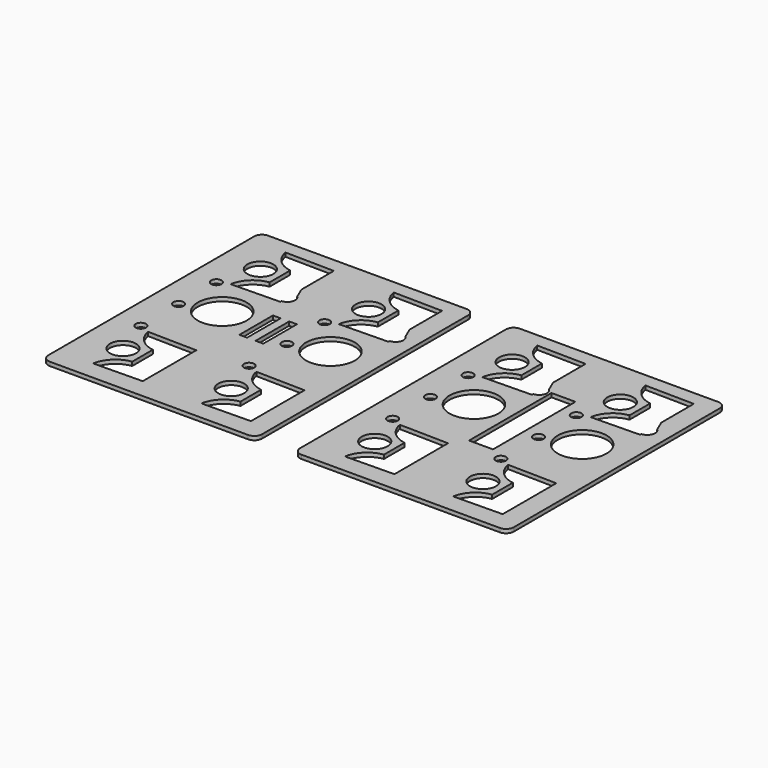
from build123d import *

# Parameters (mm, degrees)
F0_W     = 41
F0_H     = 106
F0_R     = 5.05
F0_R_2   = 2
F0_R_3   = 9.5
F0_W_2   = 3
F0_H_2   = 16.3
F0_W_3   = 1.0329227456
F1_DEPTH = 1.5
F0_H_3   = 39
F0_H_4   = 27
F2_R     = 3
F2_2_R   = 3


with BuildPart() as f1:
    # F0 (on Top) → F1 (new body)
    with BuildSketch(Plane.XY):
        with Locations((-35.5483626434, -1.2095117271)):
            Rectangle(F0_W, F0_H)
        with Locations((-41.1443521491, -33.556083858)):
            Circle(F0_R, mode=Mode.SUBTRACT)
        with BuildLine():
            ThreePointArc((-33.5483626434, -28.556083858), (-39.1555166863, -25.7806156934), (-42.0483626434, -20.2331079411))
            Line((-42.0483626434, -20.2331079411), (-23.0483626434, -20.590558947))
            Line((-23.0483626434, -20.590558947), (-23.0483626434, -46.590558947))
            Line((-23.0483626434, -46.590558947), (-42.0483626434, -46.8790597749))
            ThreePointArc((-42.0483626434, -46.8790597749), (-39.1555166863, -41.3315520227), (-33.5483626434, -38.556083858))
            Line((-33.5483626434, -38.556083858), (-33.5483626434, -28.556083858))
        make_face(mode=Mode.SUBTRACT)
        with Locations((-46.2035445282, -18.5231987163)):
            Circle(F0_R_2, mode=Mode.SUBTRACT)
        with Locations((-46.2035445282, -0.2095117271)):
            Circle(F0_R_2, mode=Mode.SUBTRACT)
        with Locations((-32.7983626434, 4.1904882729)):
            Circle(F0_R_3, mode=Mode.SUBTRACT)
        with Locations((-17.6819012706, 3.6404882729)):
            Rectangle(F0_W_2, F0_H_2, mode=Mode.SUBTRACT)
        with Locations((-46.2035445282, 18.1041752622)):
            Circle(F0_R_2, mode=Mode.SUBTRACT)
        with Locations((-41.1443521491, 33.1370604038)):
            Circle(F0_R, mode=Mode.SUBTRACT)
        with BuildLine():
            ThreePointArc((-33.5483626434, 38.1370604038), (-39.1555166863, 40.9125285685), (-42.0483626434, 46.4600363208))
            Line((-42.0483626434, 46.4600363208), (-23.0483626434, 46.1715354928))
            Line((-23.0483626434, 46.1715354928), (-23.0483626434, 30.4061131087))
            Line((-23.0483626434, 30.4061131087), (-21.1861339023, 26.0597741446))
            ThreePointArc((-21.1861339023, 26.0597741446), (-20.4201135507, 25.038148839), (-20.1483626434, 23.7904882729))
            ThreePointArc((-20.1483626434, 23.7904882729), (-20.9919767781, 21.7048229114), (-23.0483626434, 20.7921554028))
            Line((-23.0483626434, 20.7921554028), (-23.0483626434, 20.1715354928))
            Line((-23.0483626434, 20.1715354928), (-42.0483626434, 19.8140844869))
            ThreePointArc((-42.0483626434, 19.8140844869), (-39.1555166863, 25.3615922392), (-33.5483626434, 28.1370604038))
            Line((-33.5483626434, 28.1370604038), (-33.5483626434, 38.1370604038))
        make_face(mode=Mode.SUBTRACT)
        with Locations((-14.5319012706, -1.2095117271)):
            Rectangle(F0_W_3, F0_H)
        with Locations((6.4845601022, -1.2095117271)):
            Rectangle(F0_W, F0_H)
        with Locations((0.8885705966, -33.556083858)):
            Circle(F0_R, mode=Mode.SUBTRACT)
        with BuildLine():
            ThreePointArc((8.4845601022, -28.556083858), (2.8774060594, -25.7806156934), (-0.0154398978, -20.2331079411))
            Line((-0.0154398978, -20.2331079411), (18.9845601022, -20.590558947))
            Line((18.9845601022, -20.590558947), (18.9845601022, -46.590558947))
            Line((18.9845601022, -46.590558947), (-0.0154398978, -46.8790597749))
            ThreePointArc((-0.0154398978, -46.8790597749), (2.8774060594, -41.3315520227), (8.4845601022, -38.556083858))
            Line((8.4845601022, -38.556083858), (8.4845601022, -28.556083858))
        make_face(mode=Mode.SUBTRACT)
        with Locations((-4.1706217825, -18.5231987163)):
            Circle(F0_R_2, mode=Mode.SUBTRACT)
        with Locations((-11.3819012706, 3.6404882729)):
            Rectangle(F0_W_2, F0_H_2, mode=Mode.SUBTRACT)
        with Locations((-4.1706217825, -0.2095117271)):
            Circle(F0_R_2, mode=Mode.SUBTRACT)
        with Locations((9.2345601022, 4.1904882729)):
            Circle(F0_R_3, mode=Mode.SUBTRACT)
        with Locations((-4.1706217825, 18.1041752622)):
            Circle(F0_R_2, mode=Mode.SUBTRACT)
        with Locations((0.8885705966, 33.1370604038)):
            Circle(F0_R, mode=Mode.SUBTRACT)
        with BuildLine():
            ThreePointArc((8.4845601022, 38.1370604038), (2.8774060594, 40.9125285685), (-0.0154398978, 46.4600363208))
            Line((-0.0154398978, 46.4600363208), (18.9845601022, 46.1715354928))
            Line((18.9845601022, 46.1715354928), (18.9845601022, 30.4061131087))
            Line((18.9845601022, 30.4061131087), (20.8467888433, 26.0597741446))
            ThreePointArc((20.8467888433, 26.0597741446), (21.6128091949, 25.038148839), (21.8845601022, 23.7904882729))
            ThreePointArc((21.8845601022, 23.7904882729), (21.0409459675, 21.7048229114), (18.9845601022, 20.7921554028))
            Line((18.9845601022, 20.7921554028), (18.9845601022, 20.1715354928))
            Line((18.9845601022, 20.1715354928), (-0.0154398978, 19.8140844869))
            ThreePointArc((-0.0154398978, 19.8140844869), (2.8774060594, 25.3615922392), (8.4845601022, 28.1370604038))
            Line((8.4845601022, 28.1370604038), (8.4845601022, 38.1370604038))
        make_face(mode=Mode.SUBTRACT)
    extrude(amount=F1_DEPTH)

    # F2
    f2_edges = [f1.edges().sort_by_distance(p)[0] for p in [
        (26.98456, 51.790488, 0.75),
        (-56.048363, 51.790488, 0.75),
        (-56.048363, -54.209512, 0.75),
        (26.98456, -54.209512, 0.75),
    ]]
    fillet(f2_edges, radius=F2_R)


with BuildPart() as f1b:
    # F0 (on Top) → F1, piece 2 (new body)
    with BuildSketch(Plane.XY):
        Polygon((82.7163193299, 24.7904882729), (82.7163193299, 51.7904882729), (41.7163193299, 51.7904882729), (41.7163193299, -54.2095117271), (82.7163193299, -54.2095117271), (82.7163193299, -15.2095117271), (78.5827807027, -15.2095117271), (78.5827807027, -4.2095117271), (78.5827807027, 11.7904882729), (78.5827807027, 24.7904882729), align=None)
        with Locations((56.6203298242, -33.556083858)):
            Circle(F0_R, mode=Mode.SUBTRACT)
        with BuildLine():
            ThreePointArc((64.2163193299, -28.556083858), (58.609165287, -25.7806156934), (55.7163193299, -20.2331079411))
            Line((55.7163193299, -20.2331079411), (74.7163193299, -20.590558947))
            Line((74.7163193299, -20.590558947), (74.7163193299, -46.590558947))
            Line((74.7163193299, -46.590558947), (55.7163193299, -46.8790597749))
            ThreePointArc((55.7163193299, -46.8790597749), (58.609165287, -41.3315520227), (64.2163193299, -38.556083858))
            Line((64.2163193299, -38.556083858), (64.2163193299, -28.556083858))
        make_face(mode=Mode.SUBTRACT)
        with Locations((51.5611374451, -18.5231987163)):
            Circle(F0_R_2, mode=Mode.SUBTRACT)
        with Locations((51.5611374451, -0.2095117271)):
            Circle(F0_R_2, mode=Mode.SUBTRACT)
        with Locations((64.9663193299, 4.1904882729)):
            Circle(F0_R_3, mode=Mode.SUBTRACT)
        with Locations((51.5611374451, 18.1041752622)):
            Circle(F0_R_2, mode=Mode.SUBTRACT)
        with Locations((56.6203298242, 33.1370604038)):
            Circle(F0_R, mode=Mode.SUBTRACT)
        with BuildLine():
            ThreePointArc((64.2163193299, 38.1370604038), (58.609165287, 40.9125285685), (55.7163193299, 46.4600363208))
            Line((55.7163193299, 46.4600363208), (74.7163193299, 46.1715354928))
            Line((74.7163193299, 46.1715354928), (74.7163193299, 30.4061131087))
            Line((74.7163193299, 30.4061131087), (76.578548071, 26.0597741446))
            ThreePointArc((76.578548071, 26.0597741446), (77.3445684226, 25.038148839), (77.6163193299, 23.7904882729))
            ThreePointArc((77.6163193299, 23.7904882729), (76.7727051952, 21.7048229114), (74.7163193299, 20.7921554028))
            Line((74.7163193299, 20.7921554028), (74.7163193299, 20.1715354928))
            Line((74.7163193299, 20.1715354928), (55.7163193299, 19.8140844869))
            ThreePointArc((55.7163193299, 19.8140844869), (58.609165287, 25.3615922392), (64.2163193299, 28.1370604038))
            Line((64.2163193299, 28.1370604038), (64.2163193299, 38.1370604038))
        make_face(mode=Mode.SUBTRACT)
        Polygon((124.7492420755, 51.7904882729), (83.7492420755, 51.7904882729), (83.7492420755, 24.7904882729), (87.8827807027, 24.7904882729), (87.8827807027, 11.7904882729), (87.8827807027, -4.2095117271), (87.8827807027, -15.2095117271), (83.7492420755, -15.2095117271), (83.7492420755, -54.2095117271), (124.7492420755, -54.2095117271), align=None)
        with Locations((98.6532525699, -33.556083858)):
            Circle(F0_R, mode=Mode.SUBTRACT)
        with BuildLine():
            ThreePointArc((106.2492420755, -28.556083858), (100.6420880327, -25.7806156934), (97.7492420755, -20.2331079411))
            Line((97.7492420755, -20.2331079411), (116.7492420755, -20.590558947))
            Line((116.7492420755, -20.590558947), (116.7492420755, -46.590558947))
            Line((116.7492420755, -46.590558947), (97.7492420755, -46.8790597749))
            ThreePointArc((97.7492420755, -46.8790597749), (100.6420880327, -41.3315520227), (106.2492420755, -38.556083858))
            Line((106.2492420755, -38.556083858), (106.2492420755, -28.556083858))
        make_face(mode=Mode.SUBTRACT)
        with Locations((93.5940601908, -18.5231987163)):
            Circle(F0_R_2, mode=Mode.SUBTRACT)
        with Locations((93.5940601908, -0.2095117271)):
            Circle(F0_R_2, mode=Mode.SUBTRACT)
        with Locations((106.9992420755, 4.1904882729)):
            Circle(F0_R_3, mode=Mode.SUBTRACT)
        with Locations((93.5940601908, 18.1041752622)):
            Circle(F0_R_2, mode=Mode.SUBTRACT)
        with Locations((98.6532525699, 33.1370604038)):
            Circle(F0_R, mode=Mode.SUBTRACT)
        with BuildLine():
            ThreePointArc((106.2492420755, 38.1370604038), (100.6420880327, 40.9125285685), (97.7492420755, 46.4600363208))
            Line((97.7492420755, 46.4600363208), (116.7492420755, 46.1715354928))
            Line((116.7492420755, 46.1715354928), (116.7492420755, 30.4061131087))
            Line((116.7492420755, 30.4061131087), (118.6114708167, 26.0597741446))
            ThreePointArc((118.6114708167, 26.0597741446), (119.3774911682, 25.038148839), (119.6492420755, 23.7904882729))
            ThreePointArc((119.6492420755, 23.7904882729), (118.8056279408, 21.7048229114), (116.7492420755, 20.7921554028))
            Line((116.7492420755, 20.7921554028), (116.7492420755, 20.1715354928))
            Line((116.7492420755, 20.1715354928), (97.7492420755, 19.8140844869))
            ThreePointArc((97.7492420755, 19.8140844869), (100.6420880327, 25.3615922392), (106.2492420755, 28.1370604038))
            Line((106.2492420755, 28.1370604038), (106.2492420755, 38.1370604038))
        make_face(mode=Mode.SUBTRACT)
        with Locations((83.2327807027, -34.7095117271)):
            Rectangle(F0_W_3, F0_H_3)
        with Locations((83.2327807027, 38.2904882729)):
            Rectangle(F0_W_3, F0_H_4)
    extrude(amount=F1_DEPTH)

    # F2#2
    f2_2_edges = [f1b.edges().sort_by_distance(p)[0] for p in [
        (41.716319, 51.790488, 0.75),
        (124.749242, 51.790488, 0.75),
        (41.716319, -54.209512, 0.75),
        (124.749242, -54.209512, 0.75),
    ]]
    fillet(f2_2_edges, radius=F2_2_R)


solid = Compound([f1.part, f1b.part])
